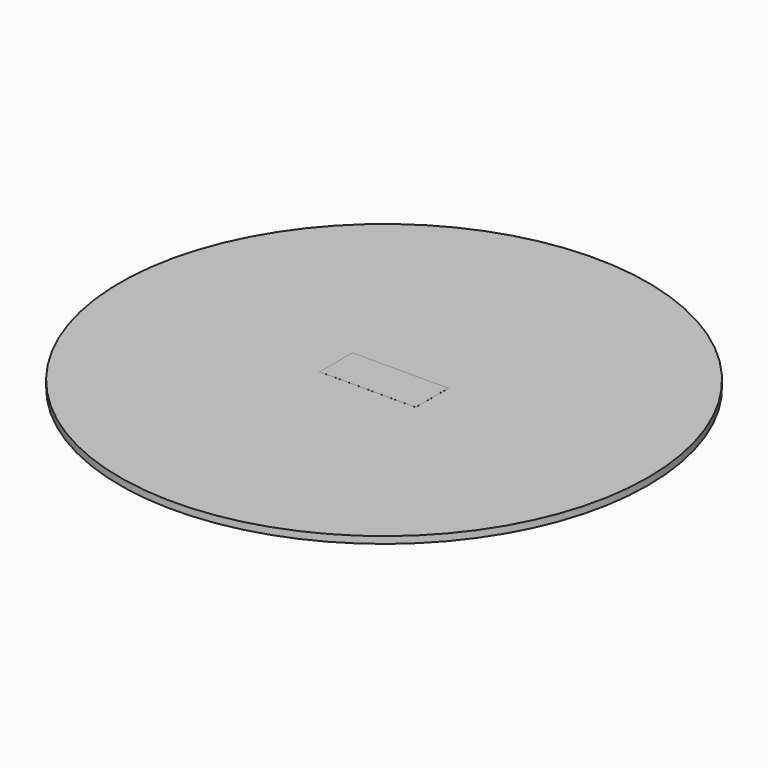
from build123d import *

# Parameters (mm, degrees)
F2_W     = 88.9
F2_H     = 38.1
F3_DEPTH = 0.0254


with BuildPart() as f1:
    # F0 (on Front) → F1 (revolve)
    with BuildSketch(Plane.XZ):
        Polygon((244.475, 0), (0, 0), (0, -6.35), (238.125, -6.35), (238.125, -6.3754), (244.475, -6.3754), align=None)
    revolve(axis=Axis((0, 0, -42.829115), (0, 0, -1)))

    # F2 (on face) → F3 (join)
    with BuildSketch(Plane.XY):
        Rectangle(F2_W, F2_H)
    extrude(amount=F3_DEPTH)


solid = f1.part
